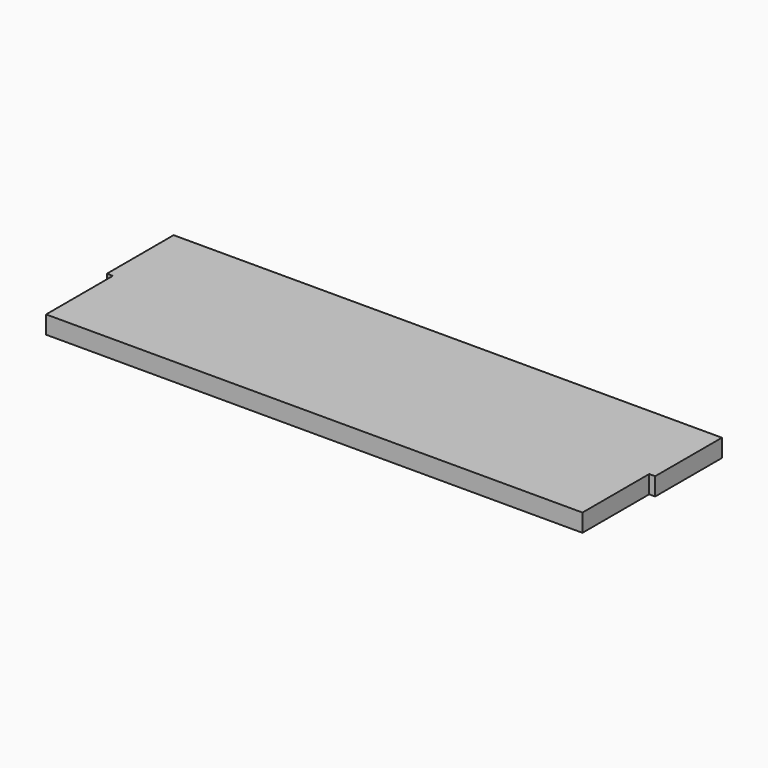
from build123d import *

# Parameters (mm, degrees)
F0_W          = 571.5
F0_H          = 19.05
F1_DEPTH      = 88.9
F2_W          = 88.9
F2_H          = 19.05
F3_DEPTH      = 6.35
F4_W          = 88.9
F4_H          = 19.05
F5_DEPTH      = 6.35
F5_DEPTH_BACK = 25.4


with BuildPart() as f1:
    # F0 (on Front) → F1 (new body, symmetric)
    with BuildSketch(Plane.XZ):
        with Locations((285.75, 9.525)):
            Rectangle(F0_W, F0_H)
    extrude(amount=F1_DEPTH, both=True)

    # F2 (on face) → F3 (join)
    with BuildSketch(Plane.YZ.offset(571.5)):
        with Locations((44.45, 9.525)):
            Rectangle(F2_W, F2_H)
    extrude(amount=F3_DEPTH)

    # F4 (on face) → F5 (join, two sides)
    with BuildSketch(Plane(origin=(0, 0, 0), x_dir=(0, -1, 0), z_dir=(-1, 0, 0))) as f5_sk:
        with Locations((-44.45, 9.525)):
            Rectangle(F4_W, F4_H)
    extrude(amount=F5_DEPTH)
    extrude(f5_sk.sketch, amount=-F5_DEPTH_BACK)


solid = f1.part
